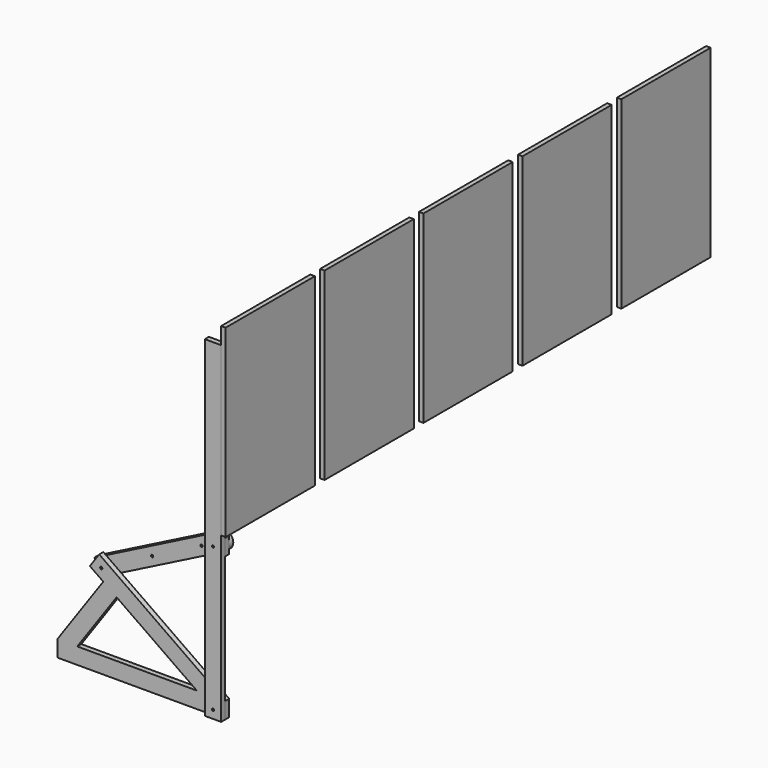
from build123d import *

# Parameters (mm, degrees)
CYLINDER003_R           = 4.5
CYLINDER003_DEPTH       = 10
CYLINDER003_PITCH_ANGLE = 90
CYLINDER002_R           = 4.5
CYLINDER002_DEPTH       = 10
CYLINDER002_PITCH_ANGLE = 90
CYLINDER001_R           = 4.5
CYLINDER001_DEPTH       = 10
CYLINDER001_PITCH_ANGLE = 90
CYLINDER_R              = 4.5
CYLINDER_DEPTH          = 10
CYLINDER_PITCH_ANGLE    = 90
SKETCH002_W             = 970
SKETCH002_H             = 1618
PAD002_DEPTH            = 27
SKETCH001_W             = 922
SKETCH001_H             = 1570
PAD001_DEPTH            = 20
SKETCH_W                = 992
SKETCH_H                = 1640
PAD_DEPTH               = 40
ARRAY_Y_COUNT           = 5
ARRAY_Y_PITCH           = 1100
SKETCH010_R             = 10
PAD003_DEPTH            = 45
SKETCH011_R             = 10
PAD004_DEPTH            = 45
SKETCH012_W             = 145
SKETCH012_H             = 145
SKETCH012_R             = 10
PAD005_DEPTH            = 45
SKETCH013_R             = 10
PAD006_DEPTH            = 45


with BuildPart() as cylinder003:
    # Cylinder003 → Cylinder003 (new body)
    with BuildSketch(Plane.XY):
        Circle(CYLINDER003_R)
    extrude(amount=CYLINDER003_DEPTH)


with BuildPart() as cylinder003_1:
    # Cylinder003 pitch: moved
    add(cylinder003.part.rotate(Axis((0, 0, 0), (0, 1, 0)), CYLINDER003_PITCH_ANGLE))


with BuildPart() as cylinder003_2:
    # Cylinder003 placement: moved
    add(cylinder003_1.part.moved(Location((0, 25, 1220))))


with BuildPart() as fusion001:
    # Cylinder002 → Cylinder002 (new body)
    with BuildSketch(Plane.XY):
        Circle(CYLINDER002_R)
    extrude(amount=CYLINDER002_DEPTH)


with BuildPart() as fusion001_1:
    # Cylinder002 pitch: moved
    add(fusion001.part.rotate(Axis((0, 0, 0), (0, 1, 0)), CYLINDER002_PITCH_ANGLE))


with BuildPart() as fusion001_2:
    # Cylinder002 placement: moved
    add(fusion001_1.part.moved(Location((0, 25, 420))))

    # Fusion001: union Cylinder003
    add(cylinder003_2.part)


with BuildPart() as fusion001_3:
    # Fusion001 placement: moved
    add(fusion001_2.part.moved(Location((0, 942, 0))))


with BuildPart() as cylinder001:
    # Cylinder001 → Cylinder001 (new body)
    with BuildSketch(Plane.XY):
        Circle(CYLINDER001_R)
    extrude(amount=CYLINDER001_DEPTH)


with BuildPart() as cylinder001_1:
    # Cylinder001 pitch: moved
    add(cylinder001.part.rotate(Axis((0, 0, 0), (0, 1, 0)), CYLINDER001_PITCH_ANGLE))


with BuildPart() as cylinder001_2:
    # Cylinder001 placement: moved
    add(cylinder001_1.part.moved(Location((0, 25, 1220))))


with BuildPart() as fusion:
    # Cylinder → Cylinder (new body)
    with BuildSketch(Plane.XY):
        Circle(CYLINDER_R)
    extrude(amount=CYLINDER_DEPTH)


with BuildPart() as fusion_1:
    # Cylinder pitch: moved
    add(fusion.part.rotate(Axis((0, 0, 0), (0, 1, 0)), CYLINDER_PITCH_ANGLE))


with BuildPart() as fusion_2:
    # Cylinder placement: moved
    add(fusion_1.part.moved(Location((0, 25, 420))))

    # Fusion: union Cylinder001
    add(cylinder001_2.part)


with BuildPart() as obj1:
    # Sketch002 → Pad002 (new body)
    with BuildSketch(Plane.YZ.offset(3)):
        with Locations((496, 820)):
            Rectangle(SKETCH002_W, SKETCH002_H)
    extrude(amount=PAD002_DEPTH)


with BuildPart() as obj2:
    # Sketch001 → Pad001 (new body)
    with BuildSketch(Plane.YZ):
        with Locations((496, 820)):
            Rectangle(SKETCH001_W, SKETCH001_H)
    extrude(amount=PAD001_DEPTH)


with BuildPart() as array:
    # Sketch → Pad (new body)
    with BuildSketch(Plane.YZ):
        with Locations((496, 820)):
            Rectangle(SKETCH_W, SKETCH_H)
    extrude(amount=PAD_DEPTH)

    # Cut: cut obj2
    add(obj2.part, mode=Mode.SUBTRACT)

    # Cut001: cut obj1
    add(obj1.part, mode=Mode.SUBTRACT)

    # Cut002: cut Fusion
    add(fusion_2.part, mode=Mode.SUBTRACT)

    # Cut003: cut Fusion001
    add(fusion001_3.part, mode=Mode.SUBTRACT)


with BuildPart() as array_1:
    # Cut003 placement: moved
    add(array.part.moved(Location((0, 0, 1305.59))))

    # Array Y: Array ×5


with BuildPart() as array_2:
    add(array_1.part)
    with Locations(*[(0, i * ARRAY_Y_PITCH, 0) for i in range(1, ARRAY_Y_COUNT)]):
        add(array_1.part)


with BuildPart() as array_3:
    # Array placement: moved
    add(array_2.part.moved(Location((0, -90, 9.41))))


with BuildPart() as pad003:
    # Sketch010 → Pad003 (new body)
    with BuildSketch(Plane.XZ):
        Polygon((0, 0), (-1120.179683, 784.358258), (-1203.348267, 665.581212), (-1084.57122, 582.412629), (-1492.380933, 0), (-1492.380933, -145), (0, -145), align=None)
        with Locations((-72.5, -72.5)):
            Circle(SKETCH010_R, mode=Mode.SUBTRACT)
        with Locations((-1102.375452, 683.385444)):
            Circle(SKETCH010_R, mode=Mode.SUBTRACT)
        Polygon((-965.794174, 499.244045), (-252.799785, 0), (-1315.368618, 0), align=None, mode=Mode.SUBTRACT)
    extrude(amount=PAD003_DEPTH)


with BuildPart() as pad004:
    # Sketch011 → Pad004 (new body)
    with BuildSketch(Plane.XZ.offset(45)):
        Polygon((0, -145), (-145, -145), (-145, 2805), (0, 2805), (0, 0), align=None)
        with Locations((-72.5, -72.5)):
            Circle(SKETCH011_R, mode=Mode.SUBTRACT)
        with Locations((-72.5, 1205)):
            Circle(SKETCH011_R, mode=Mode.SUBTRACT)
    extrude(amount=PAD004_DEPTH)


with BuildPart() as pad005:
    # Sketch012 → Pad005 (new body)
    with BuildSketch(Plane.XZ):
        with Locations((-72.5, 1205)):
            Rectangle(SKETCH012_W, SKETCH012_H)
        with Locations((-72.5, 1205)):
            Circle(SKETCH012_R, mode=Mode.SUBTRACT)
    extrude(amount=PAD005_DEPTH)


with BuildPart() as pad006:
    # Sketch013 → Pad006 (new body)
    with BuildSketch(Plane.XZ.offset(-45)):
        with BuildLine():
            ThreePointArc((-39.741998, 1140.322621), (-7.822621, 1237.758002), (-105.258002, 1269.677379))
            Line((-105.258002, 1269.677379), (-1199.810832, 715.30482))
            Line((-1199.810832, 715.30482), (-1134.294828, 585.950063))
            Line((-39.741998, 1140.322621), (-1134.294828, 585.950063))
        make_face()
        with Locations((-1102.375452, 683.385444)):
            Circle(SKETCH013_R, mode=Mode.SUBTRACT)
        with Locations((-72.5, 1205)):
            Circle(SKETCH013_R, mode=Mode.SUBTRACT)
        with Locations((-685.892863, 894.326855)):
            Circle(SKETCH013_R, mode=Mode.SUBTRACT)
        with Locations((-245.83793, 1117.20726)):
            Circle(SKETCH013_R, mode=Mode.SUBTRACT)
    extrude(amount=PAD006_DEPTH)


solid = Compound([array_3.part, pad003.part, pad004.part, pad005.part, pad006.part])
